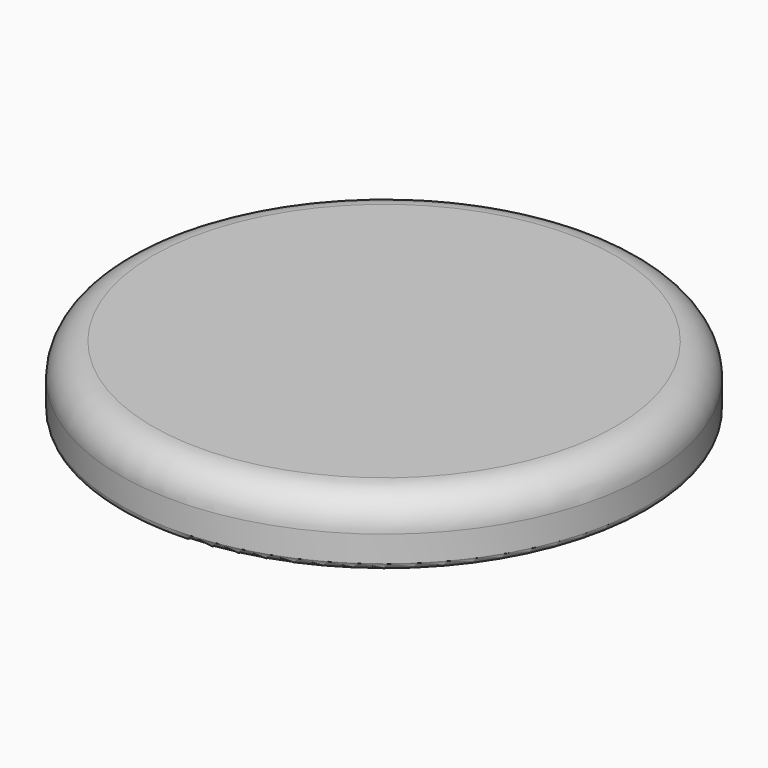
from build123d import *

# Parameters (mm, degrees)
F0_R     = 40.47
F0_R_2   = 38.145
F1_DEPTH = 5
F2_R     = 40.47
F3_DEPTH = 5
F4_R     = 5
F5_R     = 1


with BuildPart() as f1:
    # F0 (on Top) → F1 (new body)
    with BuildSketch(Plane.XY):
        Circle(F0_R)
        Circle(F0_R_2, mode=Mode.SUBTRACT)
    extrude(amount=F1_DEPTH)

    # F2 (on face) → F3 (join)
    with BuildSketch(Plane.XY.offset(5)):
        Circle(F2_R)
    extrude(amount=F3_DEPTH)

    # F4
    f4_edges = [f1.edges().sort_by_distance(p)[0] for p in [
        (-40.47, 0, 10),
    ]]
    fillet(f4_edges, radius=F4_R)

    # F5
    f5_edges = [f1.edges().sort_by_distance(p)[0] for p in [
        (-40.47, 0, 0),
    ]]
    fillet(f5_edges, radius=F5_R)


solid = f1.part
